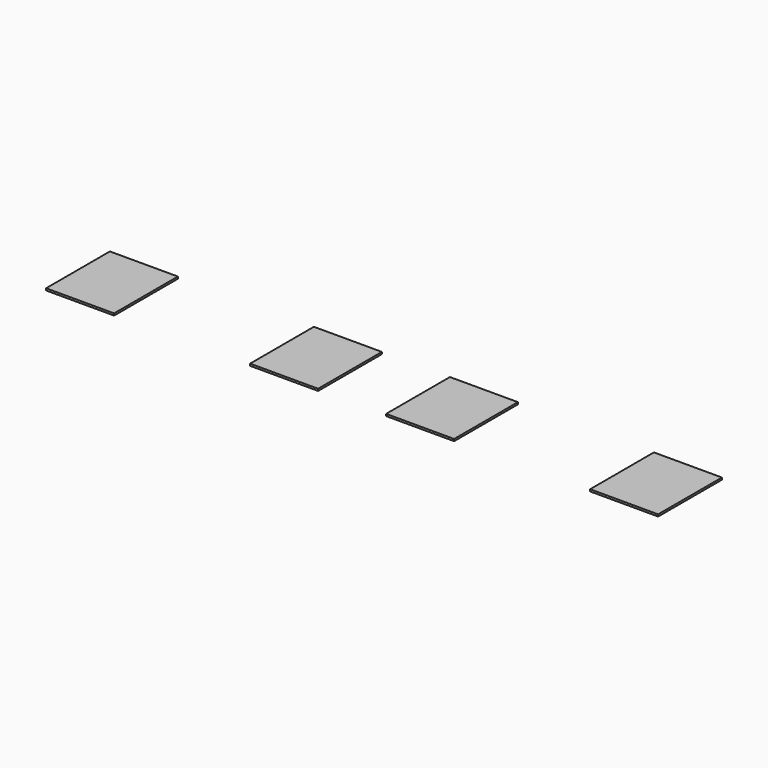
from build123d import *

# Parameters (mm, degrees)
F0_W     = 86.585903
F0_H     = 101.535976
F1_DEPTH = 2.54
F2_DEPTH = 2.54
F3_DEPTH = 2.54
F0_W_2   = 86.585904
F4_DEPTH = 2.54


with BuildPart() as f1:
    # F0 (on Top) → F1 (new body)
    with BuildSketch(Plane.XY):
        with Locations((-377.847972, 6.193966)):
            Rectangle(F0_W, F0_H)
    extrude(amount=F1_DEPTH)


with BuildPart() as f2:
    # F0 (on Top) → F2 (new body)
    with BuildSketch(Plane.XY):
        with Locations((-118.090261, 6.193966)):
            Rectangle(F0_W, F0_H)
    extrude(amount=F2_DEPTH)


with BuildPart() as f3:
    # F0 (on Top) → F3 (new body)
    with BuildSketch(Plane.XY):
        with Locations((55.081545, 6.193966)):
            Rectangle(F0_W, F0_H)
    extrude(amount=F3_DEPTH)


with BuildPart() as f4:
    # F0 (on Top) → F4 (new body)
    with BuildSketch(Plane.XY):
        with Locations((314.839256, 6.193966)):
            Rectangle(F0_W_2, F0_H)
    extrude(amount=F4_DEPTH)


solid = Compound([f1.part, f2.part, f3.part, f4.part])
